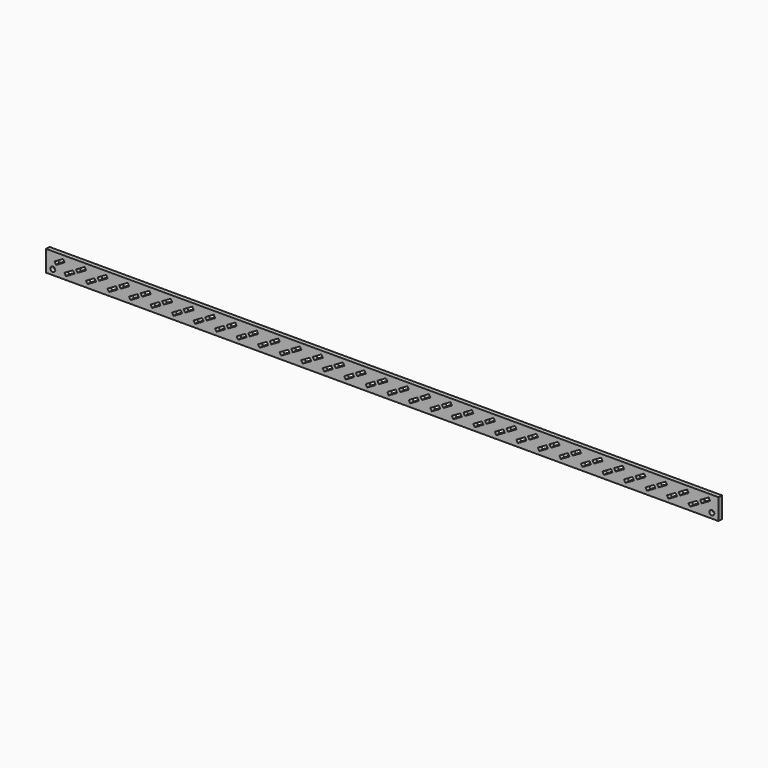
from build123d import *

# Parameters (mm, degrees)
F1_W     = 800
F1_H     = 25
F1_R     = 2.930084
F1_R_2   = 2.925
F2_DEPTH = 5


with BuildPart() as f2:
    # F1 (on Front) → F2 (new body)
    with BuildSketch(Plane.XZ):
        Rectangle(F1_W, F1_H)
        with Locations((-392, -6.3)):
            Circle(F1_R, mode=Mode.SUBTRACT)
        Polygon((-378.163505, -5.418606), (-367.987706, 0.456394), (-366.212706, -2.617996), (-376.388505, -8.492996), align=None, mode=Mode.SUBTRACT)
        Polygon((-352.563505, -5.418606), (-342.387706, 0.456394), (-340.612706, -2.617996), (-350.788505, -8.492996), align=None, mode=Mode.SUBTRACT)
        Polygon((-326.963505, -5.418606), (-316.787706, 0.456394), (-315.012706, -2.617996), (-325.188505, -8.492996), align=None, mode=Mode.SUBTRACT)
        Polygon((-301.363505, -5.418606), (-291.187706, 0.456394), (-289.412706, -2.617996), (-299.588505, -8.492996), align=None, mode=Mode.SUBTRACT)
        Polygon((-275.763505, -5.418606), (-265.587706, 0.456394), (-263.812706, -2.617996), (-273.988505, -8.492996), align=None, mode=Mode.SUBTRACT)
        Polygon((-250.163505, -5.418606), (-239.987706, 0.456394), (-238.212706, -2.617996), (-248.388505, -8.492996), align=None, mode=Mode.SUBTRACT)
        Polygon((-224.563505, -5.418606), (-214.387706, 0.456394), (-212.612706, -2.617996), (-222.788505, -8.492996), align=None, mode=Mode.SUBTRACT)
        Polygon((-198.963505, -5.418606), (-188.787706, 0.456394), (-187.012706, -2.617996), (-197.188505, -8.492996), align=None, mode=Mode.SUBTRACT)
        Polygon((-173.363505, -5.418606), (-163.187706, 0.456394), (-161.412706, -2.617996), (-171.588505, -8.492996), align=None, mode=Mode.SUBTRACT)
        Polygon((-147.763505, -5.418606), (-137.587706, 0.456394), (-135.812706, -2.617996), (-145.988505, -8.492996), align=None, mode=Mode.SUBTRACT)
        Polygon((-122.163505, -5.418606), (-111.987706, 0.456394), (-110.212706, -2.617996), (-120.388505, -8.492996), align=None, mode=Mode.SUBTRACT)
        Polygon((-96.563505, -5.418606), (-86.387706, 0.456394), (-84.612706, -2.617996), (-94.788505, -8.492996), align=None, mode=Mode.SUBTRACT)
        Polygon((-70.963505, -5.418606), (-60.787706, 0.456394), (-59.012706, -2.617996), (-69.188505, -8.492996), align=None, mode=Mode.SUBTRACT)
        Polygon((-45.363505, -5.418606), (-35.187706, 0.456394), (-33.412706, -2.617996), (-43.588505, -8.492996), align=None, mode=Mode.SUBTRACT)
        Polygon((-19.763505, -5.418606), (-9.587706, 0.456394), (-7.812706, -2.617996), (-17.988505, -8.492996), align=None, mode=Mode.SUBTRACT)
        with Locations((392, -6.3)):
            Circle(F1_R_2, mode=Mode.SUBTRACT)
        Polygon((5.836495, -5.418606), (16.012294, 0.456394), (17.787294, -2.617996), (7.611495, -8.492996), align=None, mode=Mode.SUBTRACT)
        Polygon((31.436495, -5.418606), (41.612294, 0.456394), (43.387294, -2.617996), (33.211495, -8.492996), align=None, mode=Mode.SUBTRACT)
        Polygon((57.036495, -5.418606), (67.212294, 0.456394), (68.987294, -2.617996), (58.811495, -8.492996), align=None, mode=Mode.SUBTRACT)
        Polygon((82.636495, -5.418606), (92.812294, 0.456394), (94.587294, -2.617996), (84.411495, -8.492996), align=None, mode=Mode.SUBTRACT)
        Polygon((108.236495, -5.418606), (118.412294, 0.456394), (120.187294, -2.617996), (110.011495, -8.492996), align=None, mode=Mode.SUBTRACT)
        Polygon((133.836495, -5.418606), (144.012294, 0.456394), (145.787294, -2.617996), (135.611495, -8.492996), align=None, mode=Mode.SUBTRACT)
        Polygon((159.436495, -5.418606), (169.612294, 0.456394), (171.387294, -2.617996), (161.211495, -8.492996), align=None, mode=Mode.SUBTRACT)
        Polygon((185.036495, -5.418606), (195.212294, 0.456394), (196.987294, -2.617996), (186.811495, -8.492996), align=None, mode=Mode.SUBTRACT)
        Polygon((210.636495, -5.418606), (220.812294, 0.456394), (222.587294, -2.617996), (212.411495, -8.492996), align=None, mode=Mode.SUBTRACT)
        Polygon((236.236495, -5.418606), (246.412294, 0.456394), (248.187294, -2.617996), (238.011495, -8.492996), align=None, mode=Mode.SUBTRACT)
        Polygon((261.836495, -5.418606), (272.012294, 0.456394), (273.787294, -2.617996), (263.611495, -8.492996), align=None, mode=Mode.SUBTRACT)
        Polygon((287.436495, -5.418606), (297.612294, 0.456394), (299.387294, -2.617996), (289.211495, -8.492996), align=None, mode=Mode.SUBTRACT)
        Polygon((313.036495, -5.418606), (323.212294, 0.456394), (324.987294, -2.617996), (314.811495, -8.492996), align=None, mode=Mode.SUBTRACT)
        Polygon((338.636495, -5.418606), (348.812294, 0.456394), (350.587294, -2.617996), (340.411495, -8.492996), align=None, mode=Mode.SUBTRACT)
        Polygon((364.236495, -5.418606), (374.412294, 0.456394), (376.187294, -2.617996), (366.011495, -8.492996), align=None, mode=Mode.SUBTRACT)
        Polygon((-389.907098, 2.581394), (-379.731299, 8.456394), (-377.956299, 5.382004), (-388.132098, -0.492996), align=None, mode=Mode.SUBTRACT)
        Polygon((-364.307098, 2.581394), (-354.131299, 8.456394), (-352.356299, 5.382004), (-362.532098, -0.492996), align=None, mode=Mode.SUBTRACT)
        Polygon((-338.707098, 2.581394), (-328.531299, 8.456394), (-326.756299, 5.382004), (-336.932098, -0.492996), align=None, mode=Mode.SUBTRACT)
        Polygon((-313.107098, 2.581394), (-302.931299, 8.456394), (-301.156299, 5.382004), (-311.332098, -0.492996), align=None, mode=Mode.SUBTRACT)
        Polygon((-287.507098, 2.581394), (-277.331299, 8.456394), (-275.556299, 5.382004), (-285.732098, -0.492996), align=None, mode=Mode.SUBTRACT)
        Polygon((-261.907098, 2.581394), (-251.731299, 8.456394), (-249.956299, 5.382004), (-260.132098, -0.492996), align=None, mode=Mode.SUBTRACT)
        Polygon((-236.307098, 2.581394), (-226.131299, 8.456394), (-224.356299, 5.382004), (-234.532098, -0.492996), align=None, mode=Mode.SUBTRACT)
        Polygon((-210.707098, 2.581394), (-200.531299, 8.456394), (-198.756299, 5.382004), (-208.932098, -0.492996), align=None, mode=Mode.SUBTRACT)
        Polygon((-185.107098, 2.581394), (-174.931299, 8.456394), (-173.156299, 5.382004), (-183.332098, -0.492996), align=None, mode=Mode.SUBTRACT)
        Polygon((-159.507098, 2.581394), (-149.331299, 8.456394), (-147.556299, 5.382004), (-157.732098, -0.492996), align=None, mode=Mode.SUBTRACT)
        Polygon((-133.907098, 2.581394), (-123.731299, 8.456394), (-121.956299, 5.382004), (-132.132098, -0.492996), align=None, mode=Mode.SUBTRACT)
        Polygon((-108.307098, 2.581394), (-98.131299, 8.456394), (-96.356299, 5.382004), (-106.532098, -0.492996), align=None, mode=Mode.SUBTRACT)
        Polygon((-82.707098, 2.581394), (-72.531299, 8.456394), (-70.756299, 5.382004), (-80.932098, -0.492996), align=None, mode=Mode.SUBTRACT)
        Polygon((-57.107098, 2.581394), (-46.931299, 8.456394), (-45.156299, 5.382004), (-55.332098, -0.492996), align=None, mode=Mode.SUBTRACT)
        Polygon((-31.507098, 2.581394), (-21.331299, 8.456394), (-19.556299, 5.382004), (-29.732098, -0.492996), align=None, mode=Mode.SUBTRACT)
        Polygon((-5.907098, 2.581394), (4.268701, 8.456394), (6.043701, 5.382004), (-4.132098, -0.492996), align=None, mode=Mode.SUBTRACT)
        Polygon((19.692902, 2.581394), (29.868701, 8.456394), (31.643701, 5.382004), (21.467902, -0.492996), align=None, mode=Mode.SUBTRACT)
        Polygon((45.292902, 2.581394), (55.468701, 8.456394), (57.243701, 5.382004), (47.067902, -0.492996), align=None, mode=Mode.SUBTRACT)
        Polygon((70.892902, 2.581394), (81.068701, 8.456394), (82.843701, 5.382004), (72.667902, -0.492996), align=None, mode=Mode.SUBTRACT)
        Polygon((96.492902, 2.581394), (106.668701, 8.456394), (108.443701, 5.382004), (98.267902, -0.492996), align=None, mode=Mode.SUBTRACT)
        Polygon((122.092902, 2.581394), (132.268701, 8.456394), (134.043701, 5.382004), (123.867902, -0.492996), align=None, mode=Mode.SUBTRACT)
        Polygon((147.692902, 2.581394), (157.868701, 8.456394), (159.643701, 5.382004), (149.467902, -0.492996), align=None, mode=Mode.SUBTRACT)
        Polygon((173.292902, 2.581394), (183.468701, 8.456394), (185.243701, 5.382004), (175.067902, -0.492996), align=None, mode=Mode.SUBTRACT)
        Polygon((198.892902, 2.581394), (209.068701, 8.456394), (210.843701, 5.382004), (200.667902, -0.492996), align=None, mode=Mode.SUBTRACT)
        Polygon((224.492902, 2.581394), (234.668701, 8.456394), (236.443701, 5.382004), (226.267902, -0.492996), align=None, mode=Mode.SUBTRACT)
        Polygon((250.092902, 2.581394), (260.268701, 8.456394), (262.043701, 5.382004), (251.867902, -0.492996), align=None, mode=Mode.SUBTRACT)
        Polygon((275.692902, 2.581394), (285.868701, 8.456394), (287.643701, 5.382004), (277.467902, -0.492996), align=None, mode=Mode.SUBTRACT)
        Polygon((301.292902, 2.581394), (311.468701, 8.456394), (313.243701, 5.382004), (303.067902, -0.492996), align=None, mode=Mode.SUBTRACT)
        Polygon((326.892902, 2.581394), (337.068701, 8.456394), (338.843701, 5.382004), (328.667902, -0.492996), align=None, mode=Mode.SUBTRACT)
        Polygon((352.492902, 2.581394), (362.668701, 8.456394), (364.443701, 5.382004), (354.267902, -0.492996), align=None, mode=Mode.SUBTRACT)
        Polygon((388.268701, 8.456394), (390.043701, 5.382004), (379.867902, -0.492996), (378.092902, 2.581394), align=None, mode=Mode.SUBTRACT)
    extrude(amount=F2_DEPTH)


solid = f2.part
